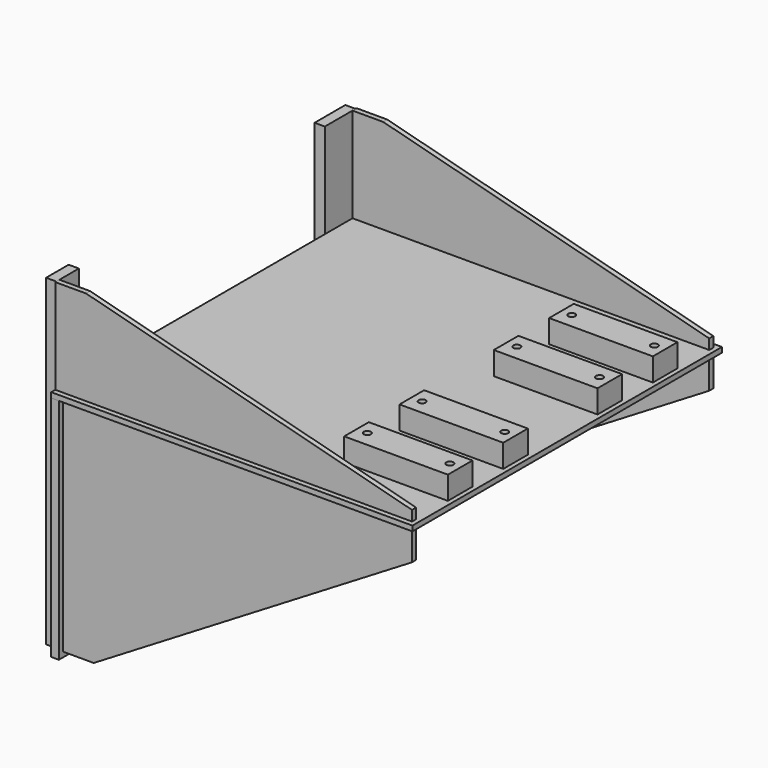
from build123d import *

# Parameters (mm, degrees)
F0_W      = 895.35
F0_H      = 958.85
F1_DEPTH  = 12.7
F2_W      = 884.174
F2_H      = 12.7
F3_DEPTH  = 234.95
F5_DEPTH  = 946.151
F8_DEPTH  = 12.7
F11_DEPTH = 19.05
F12_W     = 95.25
F12_H     = 800.1
F12_W_2   = 69.85
F13_DEPTH = 25.4
F14_W     = 257.048
F14_H     = 76.2
F14_R     = 8.73125
F15_DEPTH = 57.15


with BuildPart() as f1:
    # F0 (on Top) → F1 (new body)
    with BuildSketch(Plane.XY):
        Rectangle(F0_W, F0_H)
    extrude(amount=F1_DEPTH)


with BuildPart() as f3:
    # F2 (on face) → F3 (new body)
    with BuildSketch(Plane.XY.offset(12.7)):
        with Locations((-5.588, -460.375)):
            Rectangle(F2_W, F2_H)
    extrude(amount=F3_DEPTH)

    # F4 (on face) → F5 (cut, through all)
    with BuildSketch(Plane.XZ.offset(466.725)):
        Polygon((436.499, 247.65), (-371.475, 247.65), (436.499, 38.1), align=None)
    extrude(amount=-F5_DEPTH, mode=Mode.SUBTRACT)


with BuildPart() as f6_1:
    # F6: instance of F3
    add(f3.part.mirror(Plane.XZ))


with BuildPart() as f8:
    # F7 (on face) → F8 (new body)
    with BuildSketch(Plane.XZ.offset(466.725)):
        Polygon((-428.625, 0), (-428.625, -552.45), (-352.425, -552.45), (436.499, -76.2), (436.499, 0), align=None)
    extrude(amount=-F8_DEPTH)


with BuildPart() as f9_1:
    # F9: instance of F8
    add(f8.part.mirror(Plane.XZ))


with BuildPart() as f11:
    # F10 (on face) → F11 (new body)
    with BuildSketch(Plane(origin=(-428.625, 0, 0), x_dir=(0, -1, 0), z_dir=(-1, 0, 0))):
        with BuildLine():
            Line((479.425, -565.15), (479.425, 0))
            Line((479.425, 0), (-479.425, 0))
            Line((-479.425, 0), (-479.425, -565.15))
            Line((-479.425, -565.15), (-352.425, -565.15))
            Line((-352.425, -565.15), (-352.425, -254))
            ThreePointArc((-352.425, -254), (-337.546024, -218.078976), (-301.625, -203.2))
            Line((-301.625, -203.2), (327.025, -203.2))
            ThreePointArc((327.025, -203.2), (362.946024, -218.078976), (377.825, -254))
            Line((377.825, -254), (377.825, -565.15))
            Line((377.825, -565.15), (479.425, -565.15))
        make_face()
    extrude(amount=F11_DEPTH)


with BuildPart() as f13:
    # F12 (on face) → F13 (new body)
    with BuildSketch(Plane(origin=(-447.675, 0, 0), x_dir=(0, -1, 0), z_dir=(-1, 0, 0))):
        with Locations((-415.925, -152.4)):
            Rectangle(F12_W, F12_H)
        with Locations((428.625, -152.4)):
            Rectangle(F12_W_2, F12_H)
    extrude(amount=F13_DEPTH)


with BuildPart() as f15:
    # F14 (on face) → F15 (new body)
    with BuildSketch(Plane.XY.offset(12.7)):
        with Locations((307.975, -146.05)):
            Rectangle(F14_W, F14_H)
        with Locations((205.613, -146.812)):
            Circle(F14_R, mode=Mode.SUBTRACT)
        with Locations((410.337, -146.812)):
            Circle(F14_R, mode=Mode.SUBTRACT)
        with Locations((307.975, -317.5)):
            Rectangle(F14_W, F14_H)
        with Locations((205.613, -316.738)):
            Circle(F14_R, mode=Mode.SUBTRACT)
        with Locations((410.337, -316.738)):
            Circle(F14_R, mode=Mode.SUBTRACT)
        with Locations((307.975, 146.05)):
            Rectangle(F14_W, F14_H)
        with Locations((205.613, 146.812)):
            Circle(F14_R, mode=Mode.SUBTRACT)
        with Locations((410.337, 146.812)):
            Circle(F14_R, mode=Mode.SUBTRACT)
        with Locations((307.975, 317.5)):
            Rectangle(F14_W, F14_H)
        with Locations((205.613, 316.738)):
            Circle(F14_R, mode=Mode.SUBTRACT)
        with Locations((410.337, 316.738)):
            Circle(F14_R, mode=Mode.SUBTRACT)
    extrude(amount=F15_DEPTH)


solid = Compound([f1.part, f3.part, f6_1.part, f8.part, f9_1.part, f11.part, f13.part, f15.part])
